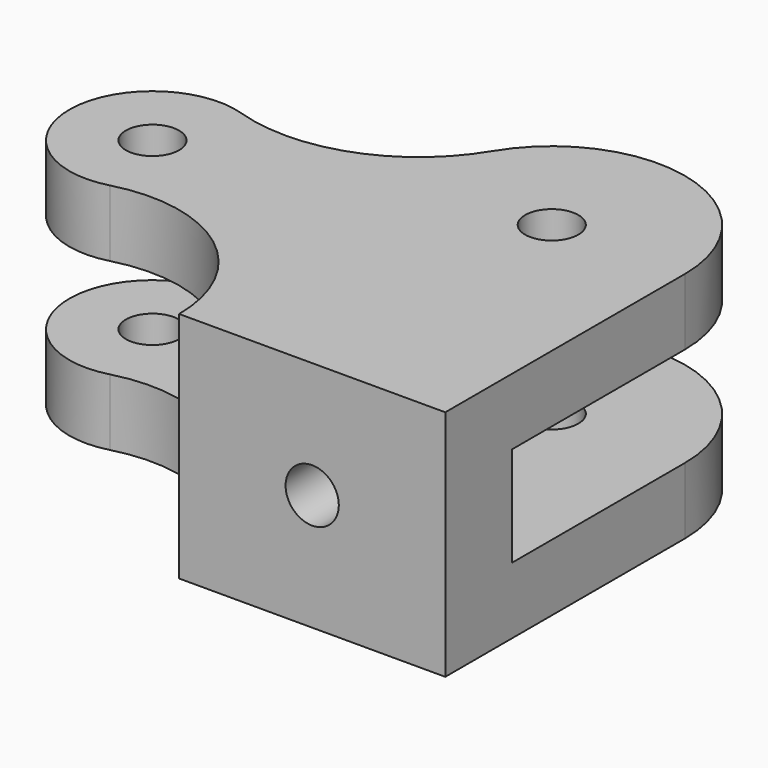
from build123d import *

# Parameters (mm, degrees)
CYLINDER024_R          = 1.6
CYLINDER024_DEPTH      = 23
CYLINDER010_R          = 1.6
CYLINDER010_DEPTH      = 200
CYLINDER010_ROLL_ANGLE = 90
SKETCH006_W            = 50
SKETCH006_H            = 50
PAD009_DEPTH           = 3
SKETCH005_R            = 1.6
PAD008_DEPTH           = 7


with BuildPart() as cilindro024:
    # Cylinder024 → Cylinder024 (new body)
    with BuildSketch(Plane(origin=(220, 40, -41.5), x_dir=(1, 0, 0), z_dir=(0, 0, 1))):
        Circle(CYLINDER024_R)
    extrude(amount=CYLINDER024_DEPTH)


with BuildPart() as cilindro010:
    # Cylinder010 → Cylinder010 (new body)
    with BuildSketch(Plane.XY):
        Circle(CYLINDER010_R)
    extrude(amount=CYLINDER010_DEPTH)


with BuildPart() as cilindro010_1:
    # Cylinder010 roll: moved
    add(cilindro010.part.rotate(Axis((0, 0, 0), (1, 0, 0)), CYLINDER010_ROLL_ANGLE))


with BuildPart() as cilindro010_2:
    # Cylinder010 placement: moved
    add(cilindro010_1.part.moved(Location((220, 100, -34.5))))


with BuildPart() as pad009:
    # Sketch006 → Pad009 (new body, symmetric)
    with BuildSketch(Plane.XY):
        with Locations((203, 28)):
            Rectangle(SKETCH006_W, SKETCH006_H)
    extrude(amount=PAD009_DEPTH, both=True)


with BuildPart() as cut020:
    # Sketch005 → Pad008 (new body, symmetric)
    with BuildSketch(Plane.XY):
        with BuildLine():
            ThreePointArc((213.146217, 35.873783), (222.141241, 32.291882), (228, 40.000021))
            Line((228, 58.000021), (228, 40.000021))
            Line((228, 58.000021), (212, 58.000021))
            ThreePointArc((201.31003, 49.825331), (208.674868, 51.271332), (212, 58.000021))
            ThreePointArc((201.31003, 49.825331), (195.001272, 44.887217), (201.526329, 40.238664))
            ThreePointArc((213.146217, 35.873783), (208.095475, 40.07732), (201.526329, 40.238664))
        make_face()
        with Locations((200, 45)):
            Circle(SKETCH005_R, mode=Mode.SUBTRACT)
    extrude(amount=PAD008_DEPTH, both=True)

    # Cut005: cut Pad009
    add(pad009.part, mode=Mode.SUBTRACT)


with BuildPart() as cut020_1:
    # Cut005 placement: moved
    add(cut020.part.moved(Location((0, 0, -34.5))))

    # Cut006: cut Cilindro010
    add(cilindro010_2.part, mode=Mode.SUBTRACT)

    # Cut020: cut Cilindro024
    add(cilindro024.part, mode=Mode.SUBTRACT)


with BuildPart() as part_mirroring:
    # Part__Mirroring: instance of Cut020
    add(cut020_1.part.mirror(Plane(origin=(0, 0, 0), x_dir=(1, 0, 0), z_dir=(0, 1, 0))))


solid = part_mirroring.part
